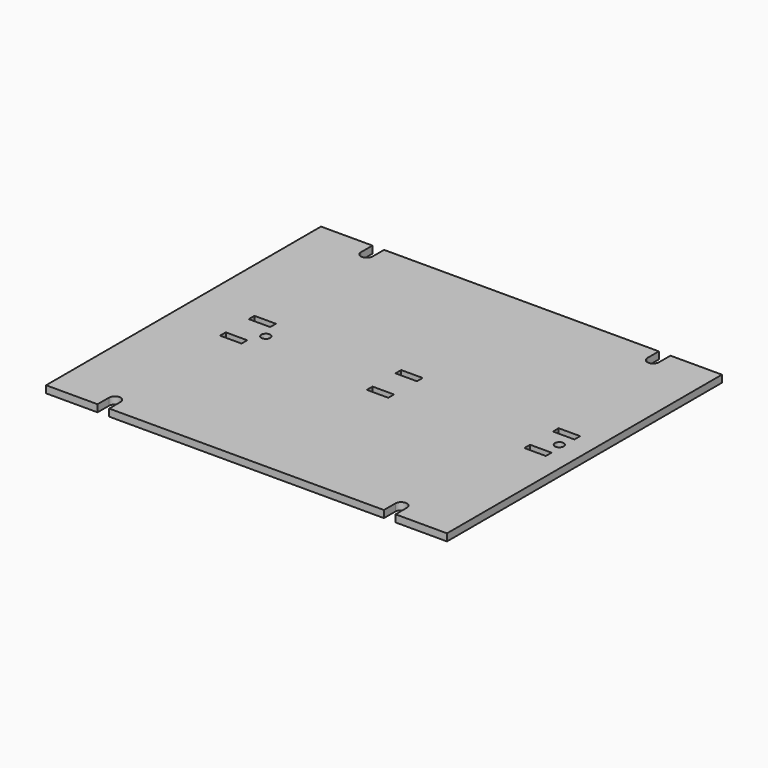
from build123d import *

# Parameters (mm, degrees)
F0_W     = 19.05
F0_H     = 6.35
F0_R     = 3.96875
F1_DEPTH = 6.35


with BuildPart() as f1:
    # F0 (on Top) → F1 (new body)
    with BuildSketch(Plane.XY):
        with BuildLine():
            Line((-194.420185, 158.081577), (-194.420185, -146.718423))
            Line((-194.420185, -146.718423), (-148.77956, -146.718423))
            Line((-148.77956, -146.718423), (-148.77956, -134.018423))
            ThreePointArc((-148.77956, -134.018423), (-143.620185, -128.859048), (-138.46081, -134.018423))
            Line((-138.46081, -134.018423), (-138.46081, -146.718423))
            Line((-138.46081, -146.718423), (105.22044, -146.718423))
            Line((105.22044, -146.718423), (105.22044, -134.018423))
            ThreePointArc((105.22044, -134.018423), (110.379815, -128.859048), (115.53919, -134.018423))
            Line((115.53919, -134.018423), (115.53919, -146.718423))
            Line((115.53919, -146.718423), (161.179815, -146.718423))
            Line((161.179815, -146.718423), (161.179815, 158.081577))
            Line((161.179815, 158.081577), (115.53919, 158.081577))
            Line((115.53919, 158.081577), (115.53919, 145.381577))
            ThreePointArc((115.53919, 145.381577), (110.379815, 140.222202), (105.22044, 145.381577))
            Line((105.22044, 145.381577), (105.22044, 158.081577))
            Line((105.22044, 158.081577), (-138.46081, 158.081577))
            Line((-138.46081, 158.081577), (-138.46081, 145.381577))
            ThreePointArc((-138.46081, 145.381577), (-143.620185, 140.222202), (-148.77956, 145.381577))
            Line((-148.77956, 145.381577), (-148.77956, 158.081577))
            Line((-148.77956, 158.081577), (-194.420185, 158.081577))
        make_face()
        with Locations((-137.270185, -10.193423)):
            Rectangle(F0_W, F0_H, mode=Mode.SUBTRACT)
        with Locations((-121.395185, 5.681577)):
            Circle(F0_R, mode=Mode.SUBTRACT)
        with Locations((-7.095185, -10.193423)):
            Rectangle(F0_W, F0_H, mode=Mode.SUBTRACT)
        with Locations((132.604815, -10.193423)):
            Rectangle(F0_W, F0_H, mode=Mode.SUBTRACT)
        with Locations((-137.270185, 21.556577)):
            Rectangle(F0_W, F0_H, mode=Mode.SUBTRACT)
        with Locations((-7.095185, 21.556577)):
            Rectangle(F0_W, F0_H, mode=Mode.SUBTRACT)
        with Locations((132.604815, 21.556577)):
            Rectangle(F0_W, F0_H, mode=Mode.SUBTRACT)
        with Locations((138.954815, 5.681577)):
            Circle(F0_R, mode=Mode.SUBTRACT)
    extrude(amount=F1_DEPTH)


solid = f1.part
